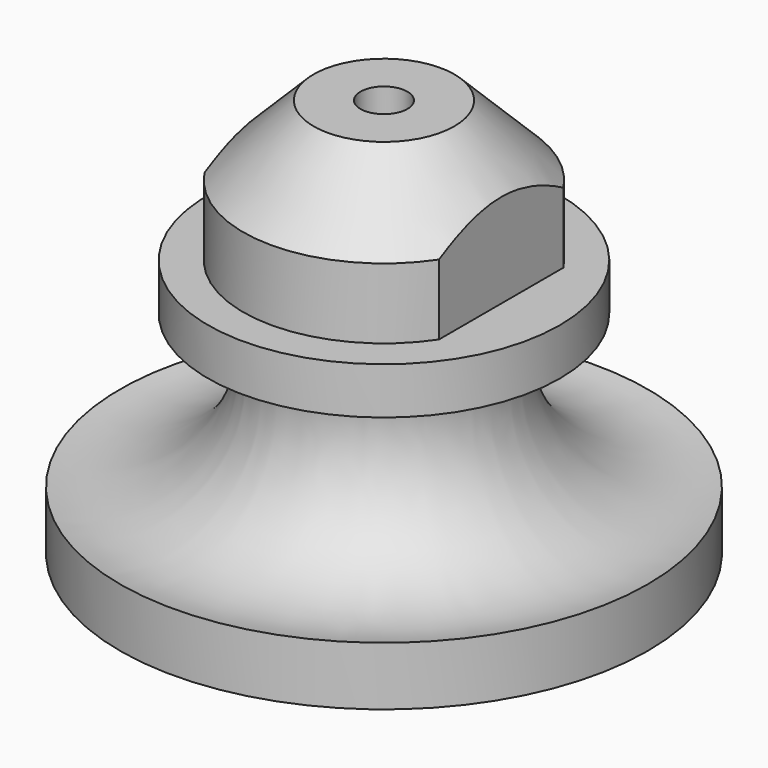
from build123d import *

# Parameters (mm, degrees)
F3_DEPTH = 12


with BuildPart() as f1:
    # F0 (on Front) → F1 (revolve)
    with BuildSketch(Plane.XZ):
        with BuildLine():
            Line((19.5, 1.692077), (19.5, 0))
            Line((19.5, 0), (22.5, 0))
            Line((22.5, 0), (22.5, 5))
            ThreePointArc((22.5, 5), (12.633257, 7.919981), (10.566341, 18))
            Line((10.566341, 18), (15, 18))
            Line((15, 18), (15, 22))
            Line((15, 22), (12, 22))
            Line((12, 22), (12, 28))
            Line((12, 28), (6, 34))
            Line((6, 34), (2, 34))
            Line((2, 34), (2, 25))
            Line((2, 25), (7, 25))
            Line((7, 25), (7, 14.682458))
            ThreePointArc((7, 14.682458), (10.632503, 5.66858), (19.5, 1.692077))
        make_face()
    revolve(axis=Axis((0, 0, 7.527599), (0, 0, -1)))

    # F2 (on face) → F3 (cut, through all)
    with BuildSketch(Plane.XY.offset(34)):
        with BuildLine():
            Line((10, 6.63325), (10, -6.63325))
            ThreePointArc((10, -6.63325), (11.489125, -3.464102), (12, 0))
            ThreePointArc((12, 0), (11.489125, 3.464102), (10, 6.63325))
        make_face()
        with BuildLine():
            ThreePointArc((-10, 6.63325), (-12, 0), (-10, -6.63325))
            Line((-10, -6.63325), (-10, 6.63325))
        make_face()
    extrude(amount=-F3_DEPTH, mode=Mode.SUBTRACT)


solid = f1.part
